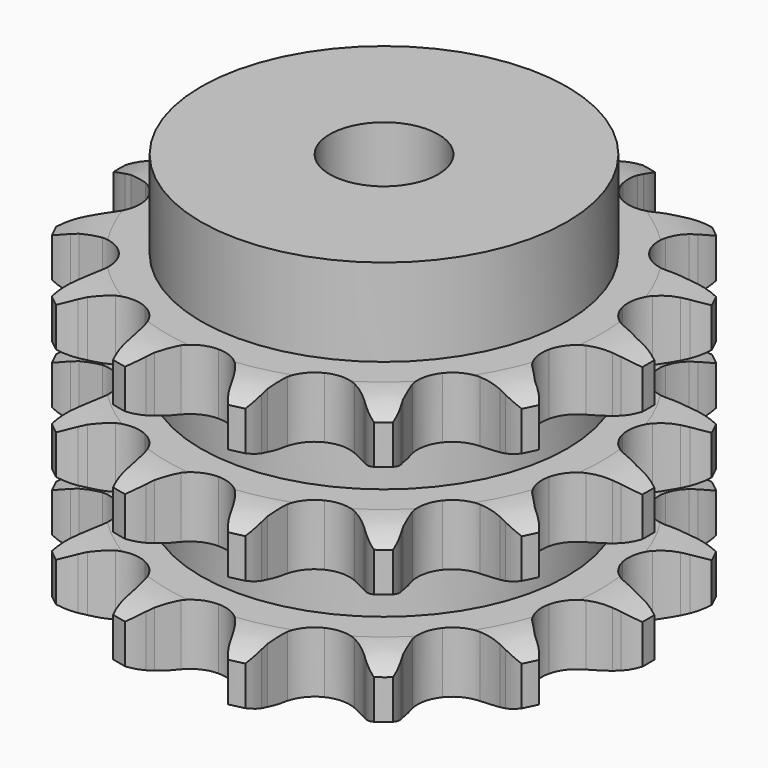
from build123d import *

# Parameters (mm, degrees)
PAD_DEPTH         = 42.1
SKETCH001_R       = 27
PAD001_DEPTH      = 55
SKETCH002_R       = 8
POCKET_DEPTH      = 0.001
POCKET_DEPTH_BACK = 55.001


with BuildPart() as part:
    # Sprocket → Pad (new body)
    with BuildSketch(Plane.XY):
        with BuildLine():
            ThreePointArc((-9.013426, 39.4904), (-7.374995, 38.000786), (-6.176591, 36.138735))
            Line((-6.176591, 36.138735), (-5.708889, 35.148664))
            ThreePointArc((-5.708889, 35.148664), (-4.928604, 33.728493), (-3.981059, 32.413999))
            ThreePointArc((-3.981059, 32.413999), (-2.202752, 31.022847), (0, 30.527301))
            ThreePointArc((0, 30.527301), (2.202752, 31.022847), (3.981059, 32.413999))
            ThreePointArc((3.981059, 32.413999), (4.928604, 33.728493), (5.708889, 35.148664))
            Line((5.708889, 35.148664), (6.176591, 36.138735))
            ThreePointArc((6.176591, 36.138735), (7.374995, 38.000786), (9.013426, 39.4904))
            ThreePointArc((9.013426, 39.4904), (9.843282, 37.437415), (10.115093, 35.239797))
            Line((10.115093, 35.239797), (10.106903, 34.144846))
            ThreePointArc((10.106903, 34.144846), (10.193726, 32.526763), (10.477097, 30.931321))
            ThreePointArc((10.477097, 30.931321), (11.475698, 28.906358), (13.2453, 27.504148))
            ThreePointArc((13.2453, 27.504148), (15.44492, 26.994881), (17.650718, 27.476687))
            Line((17.650718, 27.476687), (20.393965, 29.190858))
            ThreePointArc((20.393965, 29.190858), (20.812335, 29.544185), (21.244925, 29.879953))
            ThreePointArc((21.244925, 29.879953), (23.132564, 31.037635), (25.255059, 31.668842))
            ThreePointArc((25.255059, 31.668842), (25.111977, 29.459106), (24.403359, 27.361186))
            Line((24.403359, 27.361186), (23.920899, 26.378223))
            ThreePointArc((23.920899, 26.378223), (23.297063, 24.882709), (22.860135, 23.322315))
            ThreePointArc((22.860135, 23.322315), (22.881245, 21.06461), (23.867205, 19.033461))
            ThreePointArc((23.867205, 19.033461), (25.628032, 17.620248), (27.824435, 17.09728))
            Line((27.824435, 17.09728), (31.039766, 17.451445))
            ThreePointArc((31.039766, 17.451445), (31.570008, 17.588257), (32.105442, 17.703079))
            ThreePointArc((32.105442, 17.703079), (34.308445, 17.927099), (36.494617, 17.574881))
            ThreePointArc((36.494617, 17.574881), (35.406936, 15.646059), (33.85824, 14.063356))
            Line((33.85824, 14.063356), (32.997067, 13.387069))
            ThreePointArc((32.997067, 13.387069), (31.786131, 12.310329), (30.715444, 11.094039))
            ThreePointArc((30.715444, 11.094039), (29.754881, 9.050757), (29.761918, 6.792964))
            ThreePointArc((29.761918, 6.792964), (30.735198, 4.755709), (32.487182, 3.331548))
            Line((32.487182, 3.331548), (35.537761, 2.255559))
            ThreePointArc((35.537761, 2.255559), (36.074853, 2.148759), (36.607082, 2.019894))
            ThreePointArc((36.607082, 2.019894), (38.689118, 1.265882), (40.505969, 0))
            ThreePointArc((40.505969, 0), (38.689118, -1.265882), (36.607082, -2.019894))
            Line((36.607082, -2.019894), (35.537761, -2.255559))
            ThreePointArc((35.537761, -2.255559), (33.979566, -2.700262), (32.487182, -3.331548))
            ThreePointArc((32.487182, -3.331548), (30.735198, -4.755709), (29.761918, -6.792964))
            ThreePointArc((29.761918, -6.792964), (29.754881, -9.050757), (30.715444, -11.094039))
            Line((30.715444, -11.094039), (32.997067, -13.387069))
            ThreePointArc((32.997067, -13.387069), (33.434631, -13.716327), (33.85824, -14.063356))
            ThreePointArc((33.85824, -14.063356), (35.406936, -15.646059), (36.494617, -17.574881))
            ThreePointArc((36.494617, -17.574881), (34.308445, -17.927099), (32.105442, -17.703079))
            Line((32.105442, -17.703079), (31.039766, -17.451445))
            ThreePointArc((31.039766, -17.451445), (29.442931, -17.176034), (27.824435, -17.09728))
            ThreePointArc((27.824435, -17.09728), (25.628032, -17.620248), (23.867205, -19.033461))
            ThreePointArc((23.867205, -19.033461), (22.881245, -21.06461), (22.860135, -23.322315))
            Line((22.860135, -23.322315), (23.920899, -26.378223))
            ThreePointArc((23.920899, -26.378223), (24.172271, -26.864726), (24.403359, -27.361186))
            ThreePointArc((24.403359, -27.361186), (25.111977, -29.459106), (25.255059, -31.668842))
            ThreePointArc((25.255059, -31.668842), (23.132564, -31.037635), (21.244925, -29.879953))
            Line((21.244925, -29.879953), (20.393965, -29.190858))
            ThreePointArc((20.393965, -29.190858), (19.074763, -28.249881), (17.650718, -27.476687))
            ThreePointArc((17.650718, -27.476687), (15.44492, -26.994881), (13.2453, -27.504148))
            ThreePointArc((13.2453, -27.504148), (11.475698, -28.906358), (10.477097, -30.931321))
            Line((10.477097, -30.931321), (10.106903, -34.144846))
            ThreePointArc((10.106903, -34.144846), (10.122295, -34.692237), (10.115093, -35.239797))
            ThreePointArc((10.115093, -35.239797), (9.843282, -37.437415), (9.013426, -39.4904))
            ThreePointArc((9.013426, -39.4904), (7.374995, -38.000786), (6.176591, -36.138735))
            Line((6.176591, -36.138735), (5.708889, -35.148664))
            ThreePointArc((5.708889, -35.148664), (4.928604, -33.728493), (3.981059, -32.413999))
            ThreePointArc((3.981059, -32.413999), (2.202752, -31.022847), (0, -30.527301))
            ThreePointArc((0, -30.527301), (-2.202752, -31.022847), (-3.981059, -32.413999))
            Line((-3.981059, -32.413999), (-5.708889, -35.148664))
            ThreePointArc((-5.708889, -35.148664), (-5.932524, -35.648525), (-6.176591, -36.138735))
            ThreePointArc((-6.176591, -36.138735), (-7.374995, -38.000786), (-9.013426, -39.4904))
            ThreePointArc((-9.013426, -39.4904), (-9.843282, -37.437415), (-10.115093, -35.239797))
            Line((-10.115093, -35.239797), (-10.106903, -34.144846))
            ThreePointArc((-10.106903, -34.144846), (-10.193726, -32.526763), (-10.477097, -30.931321))
            ThreePointArc((-10.477097, -30.931321), (-11.475698, -28.906358), (-13.2453, -27.504148))
            ThreePointArc((-13.2453, -27.504148), (-15.44492, -26.994881), (-17.650718, -27.476687))
            Line((-17.650718, -27.476687), (-20.393965, -29.190858))
            ThreePointArc((-20.393965, -29.190858), (-20.812335, -29.544185), (-21.244925, -29.879953))
            ThreePointArc((-21.244925, -29.879953), (-23.132564, -31.037635), (-25.255059, -31.668842))
            ThreePointArc((-25.255059, -31.668842), (-25.111977, -29.459106), (-24.403359, -27.361186))
            Line((-24.403359, -27.361186), (-23.920899, -26.378223))
            ThreePointArc((-23.920899, -26.378223), (-23.297063, -24.882709), (-22.860135, -23.322315))
            ThreePointArc((-22.860135, -23.322315), (-22.881245, -21.06461), (-23.867205, -19.033461))
            ThreePointArc((-23.867205, -19.033461), (-25.628032, -17.620248), (-27.824435, -17.09728))
            Line((-27.824435, -17.09728), (-31.039766, -17.451445))
            ThreePointArc((-31.039766, -17.451445), (-31.570008, -17.588257), (-32.105442, -17.703079))
            ThreePointArc((-32.105442, -17.703079), (-34.308445, -17.927099), (-36.494617, -17.574881))
            ThreePointArc((-36.494617, -17.574881), (-35.406936, -15.646059), (-33.85824, -14.063356))
            Line((-33.85824, -14.063356), (-32.997067, -13.387069))
            ThreePointArc((-32.997067, -13.387069), (-31.786131, -12.310329), (-30.715444, -11.094039))
            ThreePointArc((-30.715444, -11.094039), (-29.754881, -9.050757), (-29.761918, -6.792964))
            ThreePointArc((-29.761918, -6.792964), (-30.735198, -4.755709), (-32.487182, -3.331548))
            Line((-32.487182, -3.331548), (-35.537761, -2.255559))
            ThreePointArc((-35.537761, -2.255559), (-36.074853, -2.148759), (-36.607082, -2.019894))
            ThreePointArc((-36.607082, -2.019894), (-38.689118, -1.265882), (-40.505969, 0))
            ThreePointArc((-40.505969, 0), (-38.689118, 1.265882), (-36.607082, 2.019894))
            Line((-36.607082, 2.019894), (-35.537761, 2.255559))
            ThreePointArc((-35.537761, 2.255559), (-33.979566, 2.700262), (-32.487182, 3.331548))
            ThreePointArc((-32.487182, 3.331548), (-30.735198, 4.755709), (-29.761918, 6.792964))
            ThreePointArc((-29.761918, 6.792964), (-29.754881, 9.050757), (-30.715444, 11.094039))
            Line((-30.715444, 11.094039), (-32.997067, 13.387069))
            ThreePointArc((-32.997067, 13.387069), (-33.434631, 13.716327), (-33.85824, 14.063356))
            ThreePointArc((-33.85824, 14.063356), (-35.406936, 15.646059), (-36.494617, 17.574881))
            ThreePointArc((-36.494617, 17.574881), (-34.308445, 17.927099), (-32.105442, 17.703079))
            Line((-32.105442, 17.703079), (-31.039766, 17.451445))
            ThreePointArc((-31.039766, 17.451445), (-29.442931, 17.176034), (-27.824435, 17.09728))
            ThreePointArc((-27.824435, 17.09728), (-25.628032, 17.620248), (-23.867205, 19.033461))
            ThreePointArc((-23.867205, 19.033461), (-22.881245, 21.06461), (-22.860135, 23.322315))
            Line((-22.860135, 23.322315), (-23.920899, 26.378223))
            ThreePointArc((-23.920899, 26.378223), (-24.172271, 26.864726), (-24.403359, 27.361186))
            ThreePointArc((-24.403359, 27.361186), (-25.111977, 29.459106), (-25.255059, 31.668842))
            ThreePointArc((-25.255059, 31.668842), (-23.132564, 31.037635), (-21.244925, 29.879953))
            Line((-21.244925, 29.879953), (-20.393965, 29.190858))
            ThreePointArc((-20.393965, 29.190858), (-19.074763, 28.249881), (-17.650718, 27.476687))
            ThreePointArc((-17.650718, 27.476687), (-15.44492, 26.994881), (-13.2453, 27.504148))
            ThreePointArc((-13.2453, 27.504148), (-11.475698, 28.906358), (-10.477097, 30.931321))
            Line((-10.477097, 30.931321), (-10.106903, 34.144846))
            ThreePointArc((-10.106903, 34.144846), (-10.122295, 34.692237), (-10.115093, 35.239797))
            ThreePointArc((-10.115093, 35.239797), (-9.843282, 37.437415), (-9.013426, 39.4904))
        make_face()
    extrude(amount=PAD_DEPTH)

    # Sketch → Groove (revolve, cut)
    with BuildSketch(Plane.XZ):
        with BuildLine():
            ThreePointArc((32.025762, 0), (35.60347, 0.405129), (39, 1.6))
            Line((39, 1.6), (39, 7.4))
            ThreePointArc((39, 7.4), (35.60347, 8.594871), (32.025762, 9))
            Line((27, 9), (32.025762, 9))
            Line((27, 9), (27, 16.55))
            Line((27, 16.55), (32.025762, 16.55))
            ThreePointArc((32.025762, 16.55), (35.60347, 16.955129), (39, 18.15))
            Line((39, 23.95), (39, 18.15))
            ThreePointArc((39, 23.95), (35.60347, 25.144871), (32.025762, 25.55))
            Line((27, 25.55), (32.025762, 25.55))
            Line((27, 33.1), (27, 25.55))
            Line((32.025762, 33.1), (27, 33.1))
            ThreePointArc((32.025762, 33.1), (35.60347, 33.505129), (39, 34.7))
            Line((39, 34.7), (39, 40.5))
            ThreePointArc((39, 40.5), (35.60347, 41.694871), (32.025762, 42.1))
            Line((32.025762, 42.1), (49, 42.1))
            Line((49, 42.1), (49, 0))
            Line((32.025762, 0), (49, 0))
        make_face()
    revolve(axis=Axis((0, 0, 0), (0, 0, 1)), mode=Mode.SUBTRACT)

    # Sketch001 → Pad001 (join)
    with BuildSketch(Plane.XY):
        Circle(SKETCH001_R)
    extrude(amount=PAD001_DEPTH)

    # Sketch002 → Pocket (cut, two sides)
    with BuildSketch(Plane.XY) as pocket_sk:
        Circle(SKETCH002_R)
    extrude(amount=-POCKET_DEPTH, mode=Mode.SUBTRACT)
    extrude(pocket_sk.sketch, amount=POCKET_DEPTH_BACK, mode=Mode.SUBTRACT)


solid = part.part
